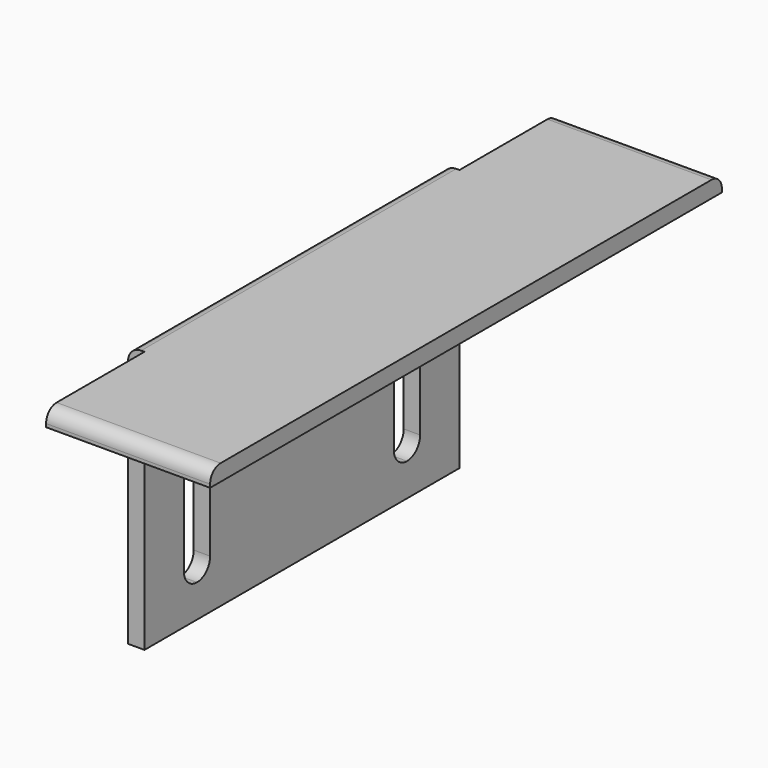
from build123d import *

# Parameters (mm, degrees)
F6_W     = 63.5
F6_H     = 6.35
F0_DEPTH = 123.825
F3_W     = 152.4
F3_H     = 101.6
F4_DEPTH = 6.35
F5_R     = 5.08


with BuildPart() as f0:
    # F6 (on Front) → F0 (new body)
    with BuildSketch(Plane.XZ):
        with Locations((38.1, 22.225)):
            Rectangle(F6_W, F6_H)
    extrude(amount=F0_DEPTH)

    # F1: F0 across plane


with BuildPart() as f0_1:
    add(f0.part)
    add(f0.part.mirror(Plane.XZ))

    # F2: F0 across plane


with BuildPart() as f0_2:
    add(f0_1.part)
    add(f0_1.part.mirror(Plane.XZ))

    # F3 (on Right) → F4 (join)
    with BuildSketch(Plane.YZ):
        with Locations((0, -25.4)):
            Rectangle(F3_W, F3_H)
        with BuildLine():
            ThreePointArc((-50.8, -63.5), (-55.2901280605, -61.6401280605), (-57.15, -57.15))
            Line((-57.15, -57.15), (-57.15, -25.4))
            ThreePointArc((-57.15, -25.4), (-50.8, -19.05), (-44.45, -25.4))
            Line((-44.45, -25.4), (-44.45, -57.15))
            ThreePointArc((-44.45, -57.15), (-46.3098719395, -61.6401280605), (-50.8, -63.5))
        make_face(mode=Mode.SUBTRACT)
        with BuildLine():
            ThreePointArc((50.8, -63.5), (46.3098719395, -61.6401280605), (44.45, -57.15))
            Line((44.45, -57.15), (44.45, -25.4))
            ThreePointArc((44.45, -25.4), (50.8, -19.05), (57.15, -25.4))
            Line((57.15, -25.4), (57.15, -57.15))
            ThreePointArc((57.15, -57.15), (55.2901280605, -61.6401280605), (50.8, -63.5))
        make_face(mode=Mode.SUBTRACT)
    extrude(amount=F4_DEPTH)

    # F5
    f5_edges = [f0_2.edges().sort_by_distance(p)[0] for p in [
        (0, 0, 25.4),
        (38.1, 123.825, 25.4),
        (38.1, -123.825, 25.4),
    ]]
    fillet(f5_edges, radius=F5_R)


solid = f0_2.part
